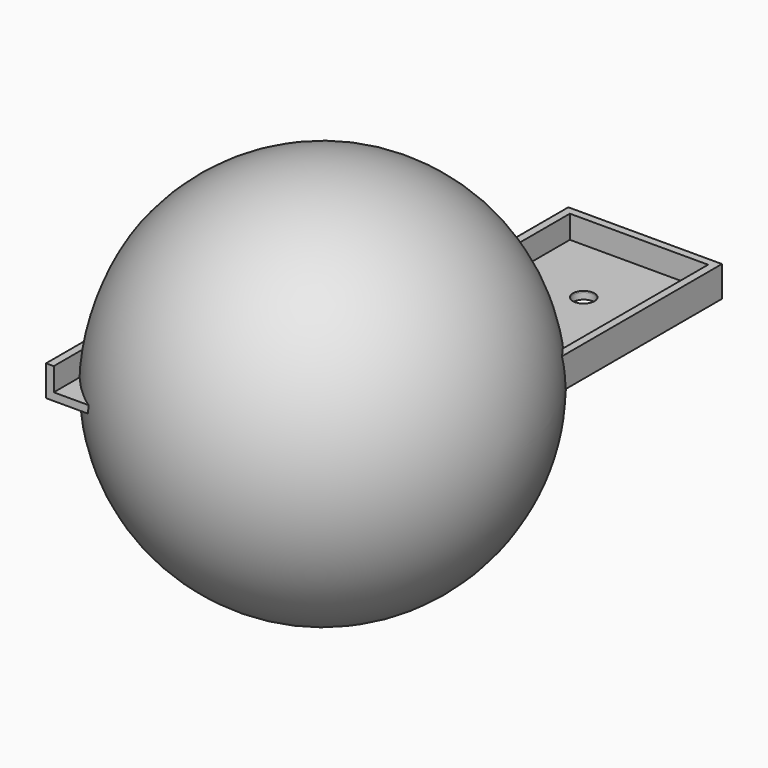
from build123d import *

# Parameters (mm, degrees)
F0_W     = 50
F0_H     = 50
F1_DEPTH = 10
F2_T     = -2.5
F5_DEPTH = 8
F6_R     = 10
F7_DEPTH = 12.5
F10_R    = 5


with BuildPart() as f1:
    # F0 (on Top) → F1 (new body)
    with BuildSketch(Plane.XY):
        with Locations((-25, 25)):
            Rectangle(F0_W, F0_H)
        with Locations((-25, -25)):
            Rectangle(F0_W, F0_H)
        with Locations((25, 25)):
            Rectangle(F0_W, F0_H)
        with Locations((25, 75)):
            Rectangle(F0_W, F0_H)
    extrude(amount=F1_DEPTH)

    # F2
    f2_openings = [f1.faces().sort_by_distance(p)[0] for p in [
        (0, 25, 10),
        (-25, -50, 5),
    ]]
    offset(amount=F2_T, openings=f2_openings, kind=Kind.INTERSECTION)

    # F4 (on offset) → F5 (join)
    with BuildSketch(Plane.XY.offset(2)):
        Polygon((-34.7855339059, 22.2855339059), (-31.25, 18.75), (-25, 25), (-18.75, 31.25), (-22.2855339059, 34.7855339059), (-28.5355339059, 28.5355339059), align=None)
    extrude(amount=F5_DEPTH)

    # F6
    f6_edges = [f1.edges().sort_by_distance(p)[0] for p in [
        (-47.5, 47.5, 6.25),
        (47.5, 2.5, 6.25),
    ]]
    fillet(f6_edges, radius=F6_R)

    # F4 (on offset) → F7 (cut, symmetric)
    with BuildSketch(Plane.XY.offset(2)):
        with BuildLine():
            ThreePointArc((28.5, 75), (22.5251262658, 77.4748737342), (25, 71.5))
            ThreePointArc((25, 71.5), (27.4748737342, 72.5251262658), (28.5, 75))
        make_face()
    extrude(amount=F7_DEPTH, both=True, mode=Mode.SUBTRACT)


with BuildPart() as f9:
    # F8 (on Top) → F9 (revolve)
    with BuildSketch(Plane.XY):
        with BuildLine():
            ThreePointArc((-38.9574993613, 31.3418768346), (16.6151291289, 47.1586416686), (50, 0))
            Line((50, 0), (61.8702455015, 0))
            ThreePointArc((61.8702455015, 0), (16.2404205562, 59.7007204192), (-53.3442971169, 31.3418768346))
            Line((-53.3442971169, 31.3418768346), (-38.9574993613, 31.3418768346))
        make_face()
    revolve(axis=Axis((-56.6923804581, 0, 0), (-1, 0, 0)))

    # F10
    f10_edges = [f9.edges().sort_by_distance(p)[0] for p in [
        (-53.344297, -31.341877, 0),
    ]]
    fillet(f10_edges, radius=F10_R)


solid = Compound([f1.part, f9.part])
